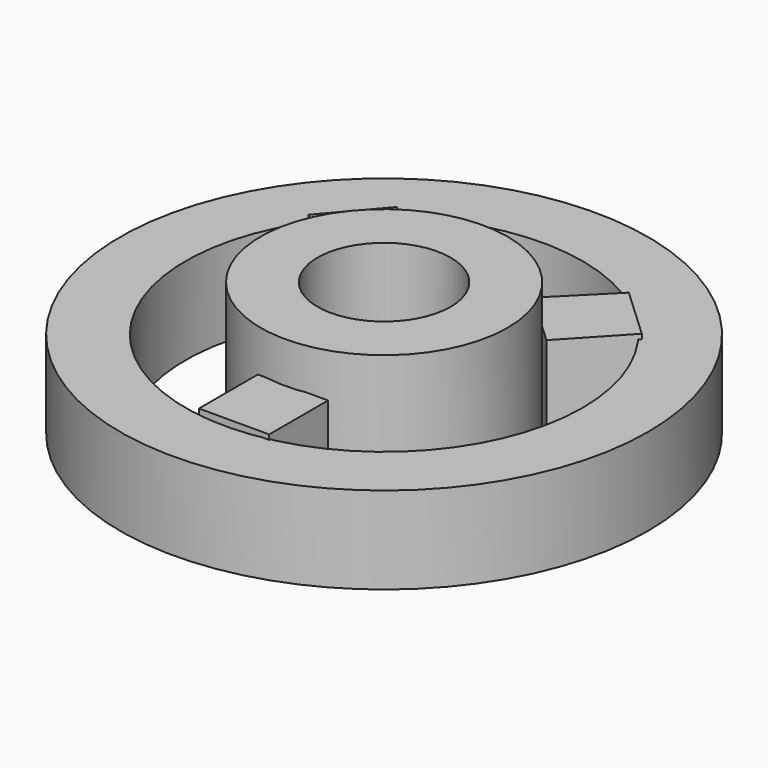
from build123d import *

# Parameters (mm, degrees)
F0_R     = 2.55
F0_R_2   = 1.375
F1_DEPTH = 2.75
F2_R     = 5.45
F2_R_2   = 4.1
F3_DEPTH = 1.8
F4_W     = 1.45
F4_H     = 1.519047
F5_DEPTH = 1.9


with BuildPart() as f1:
    # F0 (on Top) → F1 (new body)
    with BuildSketch(Plane.XY):
        Circle(F0_R)
        Circle(F0_R_2, mode=Mode.SUBTRACT)
    extrude(amount=F1_DEPTH)


with BuildPart() as f3:
    # F2 (on Top) → F3 (new body)
    with BuildSketch(Plane.XY):
        Circle(F2_R)
        Circle(F2_R_2, mode=Mode.SUBTRACT)
    extrude(amount=F3_DEPTH)


with BuildPart() as f5:
    # F4 (on Top) → F5 (new body)
    with BuildSketch(Plane.XY):
        with Locations((0.129204, -3.273578)):
            Rectangle(F4_W, F4_H)
        Polygon((2.289163, 3.454722), (1.191822, 2.3538), (2.289163, 1.329614), (3.349193, 2.46536), align=None)
        Polygon((-2.247792, 1.329614), (-1.369919, 2.3538), (-2.499028, 3.454722), (-3.442676, 2.3538), align=None)
    extrude(amount=F5_DEPTH)


solid = Compound([f1.part, f3.part, f5.part])
